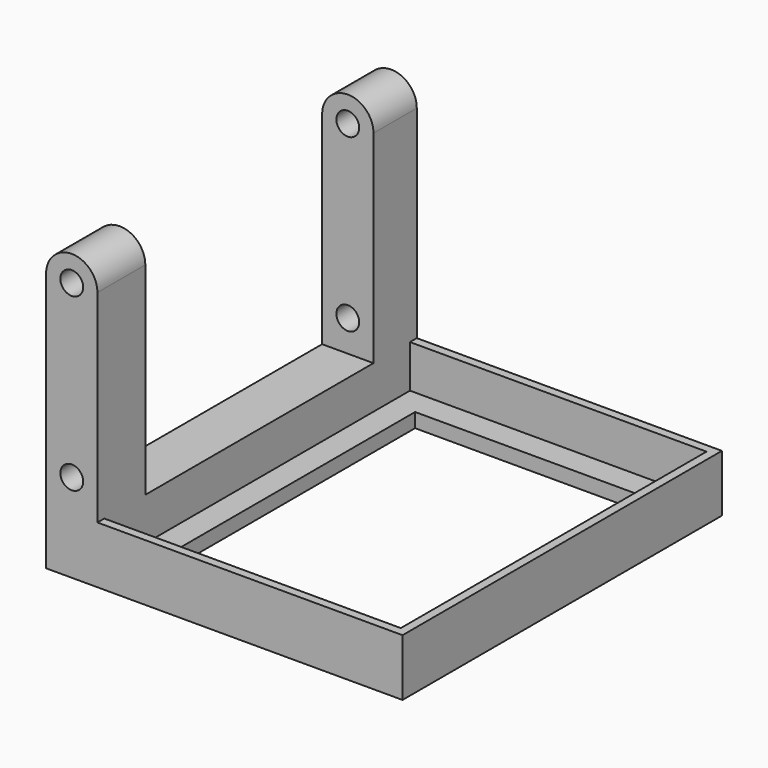
from build123d import *

# Parameters (mm, degrees)
BOX_W        = 18
BOX_H        = 100
BOX_DEPTH    = 80
SKETCH001_W  = 104
SKETCH001_H  = 134
PAD_DEPTH    = 15
SKETCH002_W  = 86
SKETCH002_H  = 116
PAD002_DEPTH = 5
SKETCH_R     = 4
PAD001_DEPTH = 140


with BuildPart() as cube:
    # Box → Box (new body)
    with BuildSketch(Plane(origin=(-91.5, -50, 20), x_dir=(1, 0, 0), z_dir=(0, 0, 1))):
        with Locations((9, 50)):
            Rectangle(BOX_W, BOX_H)
    extrude(amount=BOX_DEPTH)


with BuildPart() as baseframe:
    # Sketch001 → Pad (new body)
    with BuildSketch(Plane.XY.offset(20)):
        with Locations((-21.5, -1)):
            Rectangle(SKETCH001_W, SKETCH001_H)
    extrude(amount=-PAD_DEPTH)


with BuildPart() as cutblock:
    # Sketch002 → Pad002 (new body)
    with BuildSketch(Plane.XY.offset(5)):
        with Locations((-21.5, -1)):
            Rectangle(SKETCH002_W, SKETCH002_H)
    extrude(amount=-PAD002_DEPTH)

    # Fusion: union BaseFrame
    add(baseframe.part)


with BuildPart() as cut001:
    # Sketch → Pad001 (new body)
    with BuildSketch(Plane(origin=(0, -71, 20), x_dir=(1, 0, 0), z_dir=(0, -1, 0))):
        with BuildLine():
            Line((-91.5, -20), (-91.5, 71.000001))
            ThreePointArc((-73.5, 71.000001), (-82.5, 80), (-91.5, 71.000001))
            Line((-73.5, 0), (-73.5, 71.000001))
            Line((33.5, 0), (-73.5, 0))
            Line((33.5, -20), (33.5, 0))
            Line((-91.5, -20), (33.5, -20))
        make_face()
        with Locations((-82.5, 71)):
            Circle(SKETCH_R, mode=Mode.SUBTRACT)
        with Locations((-82.5, 11)):
            Circle(SKETCH_R, mode=Mode.SUBTRACT)
    extrude(amount=-PAD001_DEPTH)

    # Cut: cut CutBlock
    add(cutblock.part, mode=Mode.SUBTRACT)

    # Cut001: cut Cube
    add(cube.part, mode=Mode.SUBTRACT)


solid = cut001.part
